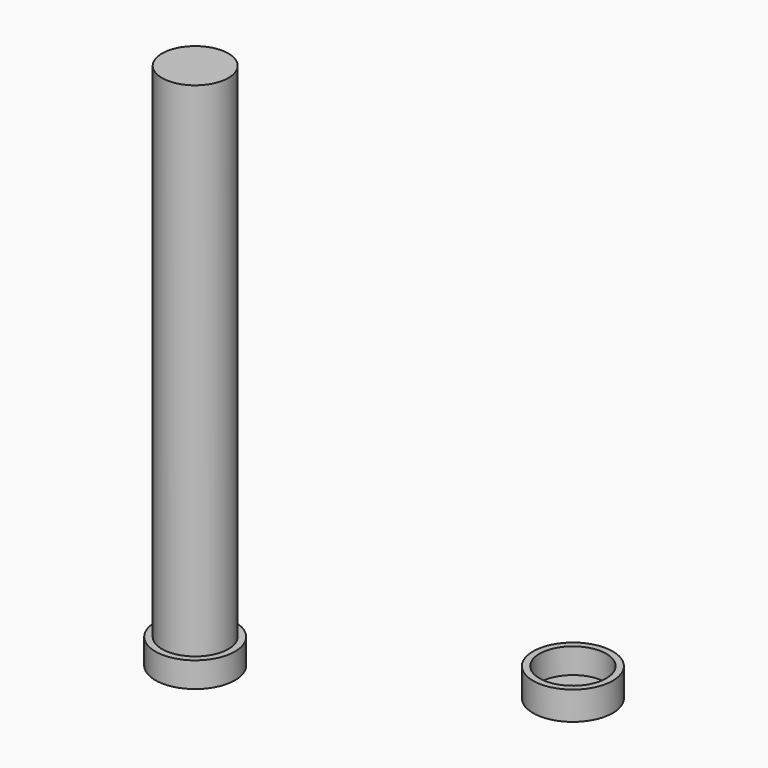
from build123d import *

# Parameters (mm, degrees)
F0_R      = 5.25
F1_DEPTH  = 84
F0_R_2    = 6.3
F2_DEPTH  = 4
F3_R      = 6.3
F4_DEPTH  = 4.5
F5_R      = 5.275
F6_DEPTH  = 4
F1_FACE_R = 5.25
F7_DEPTH  = 0.5


with BuildPart() as f1:
    # F0 (on Top) → F1 (new body)
    with BuildSketch(Plane.XY):
        Circle(F0_R)
    extrude(amount=F1_DEPTH)

    # F0 (on Top) → F2 (join)
    with BuildSketch(Plane.XY):
        Circle(F0_R_2)
        Circle(F0_R, mode=Mode.SUBTRACT)
    extrude(amount=F2_DEPTH)

    # F1_face (on face) → F7 (cut)
    with BuildSketch(Plane.XY.offset(84)):
        Circle(F1_FACE_R)
    extrude(amount=-F7_DEPTH, mode=Mode.SUBTRACT)


with BuildPart() as f4:
    # F3 (on Top) → F4 (new body)
    with BuildSketch(Plane.XY):
        with Locations((41.902754, 22.281056)):
            Circle(F3_R)
    extrude(amount=F4_DEPTH)

    # F5 (on face) → F6 (cut)
    with BuildSketch(Plane.XY.offset(4.5)):
        with Locations((41.902754, 22.281056)):
            Circle(F5_R)
    extrude(amount=-F6_DEPTH, mode=Mode.SUBTRACT)


solid = Compound([f1.part, f4.part])
